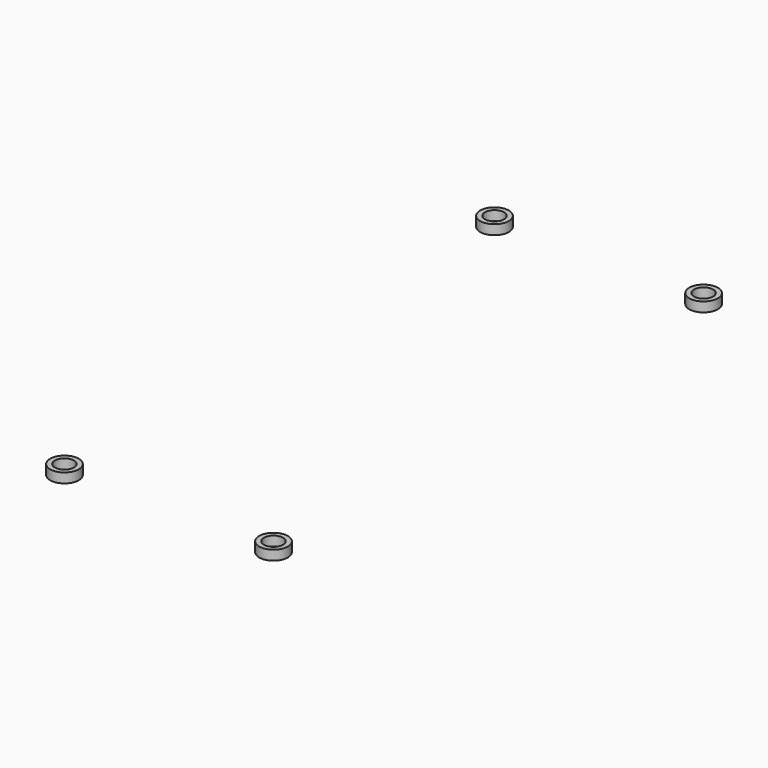
from build123d import *

# Parameters (mm, degrees)
SKETCH001002047_W = 41
SKETCH001002047_H = 96
SKETCH001002047_R = 2.4
PAD034_DEPTH      = 1.62
SKETCH001002045_W = 41
SKETCH001002045_H = 96
SKETCH001002045_R = 1.6
PAD032_DEPTH      = 1.62


with BuildPart() as body027:
    # Sketch001002047 → Pad034 (new body)
    with BuildSketch(Plane.XY.offset(-0.01)):
        with Locations((20, 47.5)):
            Rectangle(SKETCH001002047_W, SKETCH001002047_H)
        with Locations((2.5, 2.5)):
            Circle(SKETCH001002047_R, mode=Mode.SUBTRACT)
        with Locations((37.5, 2.5)):
            Circle(SKETCH001002047_R, mode=Mode.SUBTRACT)
        with Locations((37.5, 92.5)):
            Circle(SKETCH001002047_R, mode=Mode.SUBTRACT)
        with Locations((2.5, 92.5)):
            Circle(SKETCH001002047_R, mode=Mode.SUBTRACT)
    extrude(amount=PAD034_DEPTH)


with BuildPart() as cut010:
    # Sketch001002045 → Pad032 (new body)
    with BuildSketch(Plane.XY.offset(-0.01)):
        with Locations((20, 47.5)):
            Rectangle(SKETCH001002045_W, SKETCH001002045_H)
        with Locations((2.5, 2.5)):
            Circle(SKETCH001002045_R, mode=Mode.SUBTRACT)
        with Locations((37.5, 2.5)):
            Circle(SKETCH001002045_R, mode=Mode.SUBTRACT)
        with Locations((37.5, 92.5)):
            Circle(SKETCH001002045_R, mode=Mode.SUBTRACT)
        with Locations((2.5, 92.5)):
            Circle(SKETCH001002045_R, mode=Mode.SUBTRACT)
    extrude(amount=PAD032_DEPTH)

    # Cut001: cut Body027
    add(body027.part, mode=Mode.SUBTRACT)


solid = cut010.part
